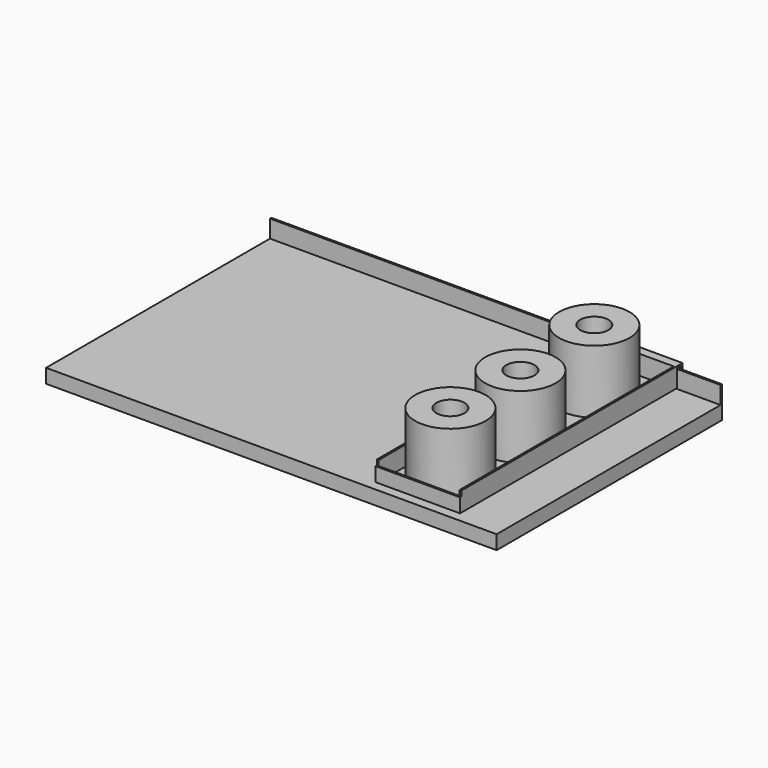
from build123d import *

# Parameters (mm, degrees)
F0_W      = 812.8
F0_H      = 508
F1_DEPTH  = 25.4
F2_W      = 3.175
F2_H      = 31.75
F3_DEPTH  = 406.4
F6_DEPTH  = 76.2
F7_W      = 3.175
F7_H      = 34.925
F8_DEPTH  = 482.6
F9_W      = 152.4
F9_H      = 25.4
F10_DEPTH = 3.175
F11_R     = 63.5
F11_R_2   = 25.4
F12_DEPTH = 114.3


with BuildPart() as f1:
    # F0 (on Top) → F1 (new body)
    with BuildSketch(Plane.XY):
        Rectangle(F0_W, F0_H)
    extrude(amount=-F1_DEPTH)

    # F2 (on Right) → F3 (join, symmetric)
    with BuildSketch(Plane.YZ):
        with Locations((252.4125, 15.875)):
            Rectangle(F2_W, F2_H)
    extrude(amount=F3_DEPTH, both=True)

    # F11 (on face) → F12 (join)
    with BuildSketch(Plane.XY):
        with Locations((252.084047, 159.124628)):
            Circle(F11_R)
        with Locations((252.084047, 159.124628)):
            Circle(F11_R_2, mode=Mode.SUBTRACT)
        with Locations((257.095814, -13.781065)):
            Circle(F11_R)
        with Locations((257.095814, -13.781065)):
            Circle(F11_R_2, mode=Mode.SUBTRACT)
        with Locations((252.084047, -165.386781)):
            Circle(F11_R)
        with Locations((252.084047, -165.386781)):
            Circle(F11_R_2, mode=Mode.SUBTRACT)
    extrude(amount=F12_DEPTH)


with BuildPart() as f6:
    # F5 (on offset) → F6 (new body, symmetric)
    with BuildSketch(Plane.YZ.offset(254)):
        Polygon((244.487631, 3.175), (247.65, 3.175), (247.65, 34.925), (257.175, 34.925), (257.175, 3.175), (260.35, 3.175), (260.35, 38.1), (244.487631, 38.1), align=None)
    extrude(amount=F6_DEPTH, both=True)

    # F7 (on face) → F8 (join)
    with BuildSketch(Plane.XZ.offset(-244.487631)):
        with Locations((179.3875, 20.6375)):
            Rectangle(F7_W, F7_H)
        with Locations((328.6125, 20.6375)):
            Rectangle(F7_W, F7_H)
    extrude(amount=F8_DEPTH)

    # F9 (on face) → F10 (join)
    with BuildSketch(Plane.XZ.offset(238.112369)):
        with Locations((254, 15.875)):
            Rectangle(F9_W, F9_H)
    extrude(amount=F10_DEPTH)


solid = Compound([f1.part, f6.part])
